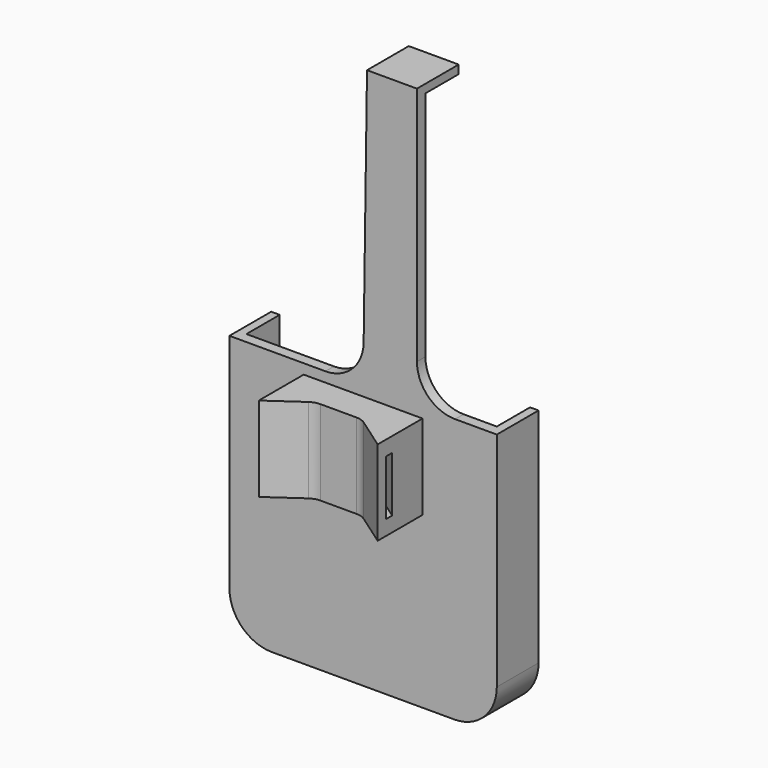
from build123d import *

# Parameters (mm, degrees)
F2_DEPTH  = 20
F4_DEPTH  = 6.5
F7_DEPTH  = 2.5
F9_DEPTH  = 9.8
F10_DEPTH = 25


with BuildPart() as f2:
    # F1 (on Top) → F2 (new body)
    with BuildSketch(Plane.XY):
        with BuildLine():
            Line((14, 5.510261), (-14, 5.510261))
            Line((-14, 5.510261), (-14, -7.709925))
            Line((-14, -7.709925), (-6.533111, -2.481553))
            ThreePointArc((-6.533111, -2.481553), (-5.441628, -1.943293), (-4.238805, -1.758161))
            Line((-4.238805, -1.758161), (4.238805, -1.758161))
            ThreePointArc((4.238805, -1.758161), (5.441628, -1.943293), (6.533111, -2.481553))
            Line((6.533111, -2.481553), (14, -7.709925))
            Line((14, -7.709925), (14, 5.510261))
        make_face()
    extrude(amount=F2_DEPTH)

    # F3 (on offset) → F4 (cut, symmetric)
    with BuildSketch(Plane.XY.offset(10)):
        with BuildLine():
            ThreePointArc((4.238805, 0.241839), (6.04304, -0.035859), (7.680263, -0.843249))
            Line((7.680263, -0.843249), (15.147153, -6.071621))
            Line((15.147153, -6.071621), (16.007518, -4.842893))
            Line((16.007518, -4.842893), (8.540628, 0.385479))
            ThreePointArc((8.540628, 0.385479), (6.494098, 1.394716), (4.238805, 1.741839))
            Line((4.238805, 1.741839), (-4.238805, 1.741839))
            ThreePointArc((-4.238805, 1.741839), (-6.494098, 1.394716), (-8.540628, 0.385479))
            Line((-8.540628, 0.385479), (-16.007518, -4.842893))
            Line((-16.007518, -4.842893), (-15.147153, -6.071621))
            Line((-15.147153, -6.071621), (-7.680263, -0.843249))
            ThreePointArc((-7.680263, -0.843249), (-6.04304, -0.035859), (-4.238805, 0.241839))
            Line((-4.238805, 0.241839), (4.238805, 0.241839))
        make_face()
    extrude(amount=F4_DEPTH, both=True, mode=Mode.SUBTRACT)


with BuildPart() as f7:
    # F5 (on face) → F7 (new body)
    with BuildSketch(Plane(origin=(0, 5.510261, 0), x_dir=(-1, 0, 0), z_dir=(0, 1, 0))):
        with BuildLine():
            Line((21.5, 88), (-21.5, 88))
            ThreePointArc((-21.5, 88), (-28.571068, 85.071068), (-31.5, 78))
            Line((-31.5, 78), (-31.5, -30))
            ThreePointArc((-31.5, -30), (-28.571068, -37.071068), (-21.5, -40))
            Line((-21.5, -40), (21.5, -40))
            ThreePointArc((21.5, -40), (28.571068, -37.071068), (31.5, -30))
            Line((31.5, -30), (31.5, 78))
            ThreePointArc((31.5, 78), (28.571068, 85.071068), (21.5, 88))
        make_face()
    extrude(amount=F7_DEPTH)

    # F8 (on face) → F9 (join)
    with BuildSketch(Plane(origin=(0, 8.010261, 0), x_dir=(-1, 0, 0), z_dir=(0, 1, 0))):
        with BuildLine():
            Line((-31.5, 78), (-31.5, -30))
            ThreePointArc((-31.5, -30), (-28.571068, -37.071068), (-21.5, -40))
            Line((-21.5, -40), (21.5, -40))
            ThreePointArc((21.5, -40), (28.571068, -37.071068), (31.5, -30))
            Line((31.5, -30), (31.5, 78))
            ThreePointArc((31.5, 78), (28.571068, 85.071068), (21.5, 88))
            Line((21.5, 88), (-21.5, 88))
            ThreePointArc((-21.5, 88), (-28.571068, 85.071068), (-31.5, 78))
        make_face()
        with BuildLine():
            Line((-29.5, -30), (-29.5, 78))
            ThreePointArc((-29.5, 78), (-27.156854, 83.656854), (-21.5, 86))
            Line((-21.5, 86), (21.5, 86))
            ThreePointArc((21.5, 86), (27.156854, 83.656854), (29.5, 78))
            Line((29.5, 78), (29.5, -30))
            ThreePointArc((29.5, -30), (27.156854, -35.656854), (21.5, -38))
            Line((21.5, -38), (-21.5, -38))
            ThreePointArc((-21.5, -38), (-27.156854, -35.656854), (-29.5, -30))
        make_face(mode=Mode.SUBTRACT)
    extrude(amount=F9_DEPTH)

    # F6 (on Front) → F10 (cut)
    with BuildSketch(Plane.XZ):
        with BuildLine():
            ThreePointArc((12.683653, 31.359739), (15.319692, 24.995778), (21.683653, 22.359739))
            Line((21.683653, 22.359739), (32.072476, 22.359739))
            Line((32.072476, 22.359739), (32.072476, 102.717368))
            Line((32.072476, 102.717368), (12.683653, 102.82569))
            Line((12.683653, 102.82569), (12.683653, 31.359739))
        make_face()
        with BuildLine():
            Line((0.123888, 31.234109), (1.123324, 102.82569))
            Line((1.123324, 102.82569), (-38.69006, 102.82569))
            Line((-38.69006, 102.82569), (-38.69006, 22.359739))
            Line((-38.69006, 22.359739), (-8.875235, 22.359739))
            ThreePointArc((-8.875235, 22.359739), (-2.555847, 24.951515), (0.123888, 31.234109))
        make_face()
    extrude(amount=-F10_DEPTH, mode=Mode.SUBTRACT)


solid = Compound([f2.part, f7.part])
